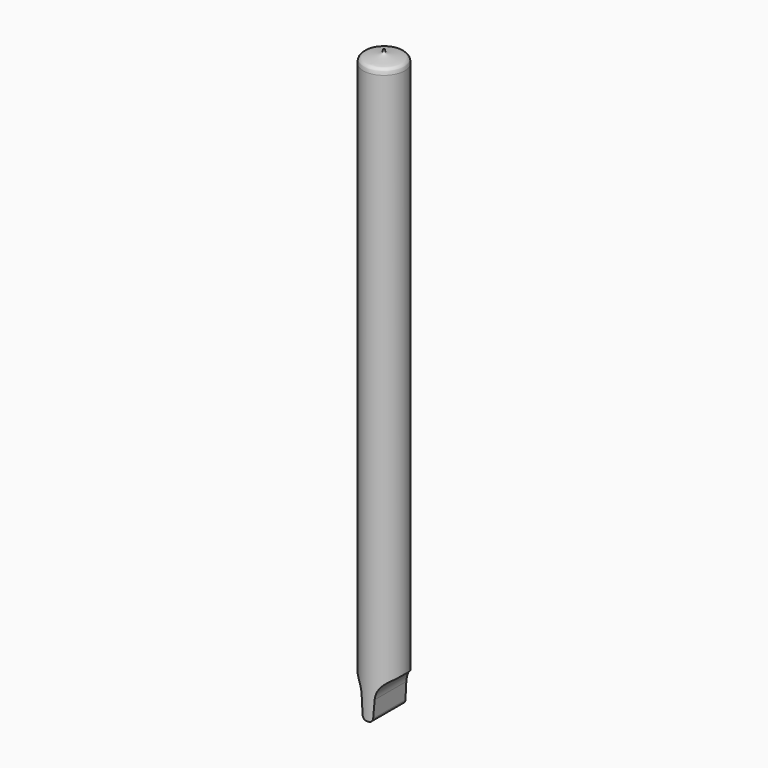
from build123d import *

# Parameters (mm, degrees)
F0_R     = 5
F1_DEPTH = 140
F3_DEPTH = 11.55


with BuildPart() as f1:
    # F0 (on Top) → F1 (new body)
    with BuildSketch(Plane.XY):
        Circle(F0_R)
    extrude(amount=F1_DEPTH)

    # F2 (on Front) → F3 (cut, symmetric)
    with BuildSketch(Plane.XZ):
        with BuildLine():
            ThreePointArc((-4.9343728731, 9.5041744104), (-4.9905112474, 9.5740316018), (-4.9936231851, 9.6635964393))
            Line((-4.9936231851, 9.6635964393), (-5.6447708048, 8.8026849553))
            Line((-5.6447708048, 8.8026849553), (-7.4423355982, 9.3325031921))
            Line((-7.4423355982, 9.3325031921), (-10.4406764731, 4.5940310123))
            Line((-10.4406764731, 4.5940310123), (-9.1289039701, -1.7381435225))
            Line((-9.1289039701, -1.7381435225), (0, -1.7381435225))
            Line((0, -1.7381435225), (8.475315288, -1.7381435225))
            Line((8.475315288, -1.7381435225), (6.0502169654, 5.5752913468))
            Line((6.0502169654, 5.5752913468), (5.1431669854, 9.3325031921))
            Line((5.1431669854, 9.3325031921), (4.9936231851, 9.6635964393))
            ThreePointArc((4.9936231851, 9.6635964393), (4.9905112474, 9.5740316018), (4.9343728731, 9.5041744104))
            Line((4.9343728731, 9.5041744104), (3.8363389221, 8.7961034203))
            ThreePointArc((3.8363389221, 8.7961034203), (2.2446684706, 7.1431548318), (1.5589835431, 4.9532940959))
            Line((1.5589835431, 4.9532940959), (1.2690167304, 0.9281473833))
            ThreePointArc((1.2690167304, 0.9281473833), (0.9528310141, 0.2679301206), (0.2716014701, 0))
            Line((0.2716014701, 0), (0, 0))
            Line((0, 0), (-0.2716014701, 0))
            ThreePointArc((-0.2716014701, 0), (-0.9528310141, 0.2679301206), (-1.2690167304, 0.9281473833))
            Line((-1.2690167304, 0.9281473833), (-1.5589835431, 4.9532940959))
            ThreePointArc((-1.5589835431, 4.9532940959), (-2.2446684706, 7.1431548318), (-3.8363389221, 8.7961034203))
            Line((-3.8363389221, 8.7961034203), (-4.9343728731, 9.5041744104))
        make_face()
    extrude(amount=F3_DEPTH, both=True, mode=Mode.SUBTRACT)

    # F4 (on Right) → F5 (revolve, cut)
    with BuildSketch(Plane.YZ):
        with BuildLine():
            Line((-0.0064786935, 140.206694603), (-5.0473981754, 140.206694603))
            Line((-5.0473981754, 140.206694603), (-5.0473981754, 136.6430294396))
            add(Edge.make_bspline(
                [(-0.0064786935, 140.0043070316), (-0.0692082586, 139.9860955088), (-0.1979467492, 139.9487204058), (-0.2136150513, 139.7256958309), (-0.2745325567, 139.409206263), (-0.3981966452, 138.9202736287), (-3.584305469, 138.5722227649), (-4.3554143689, 138.43019256), (-4.7752856256, 137.9991725277), (-4.916967026, 137.7419277902), (-4.9952783408, 137.0821454066), (-5.0473981754, 136.6430294396)],
                knots=[0, 0, 0, 0, 0.0599452364, 0.1230242745, 0.2025770079, 0.2903198787, 0.5396616387, 0.6742796245, 0.7743510294, 0.8498200795, 1, 1, 1, 1], degree=3))
            Line((-0.0064786935, 140.0043070316), (-0.0064786935, 140.206694603))
        make_face()
    revolve(axis=Axis((0, 0, 139.283709228), (0, 0, -1)), mode=Mode.SUBTRACT)


solid = f1.part
